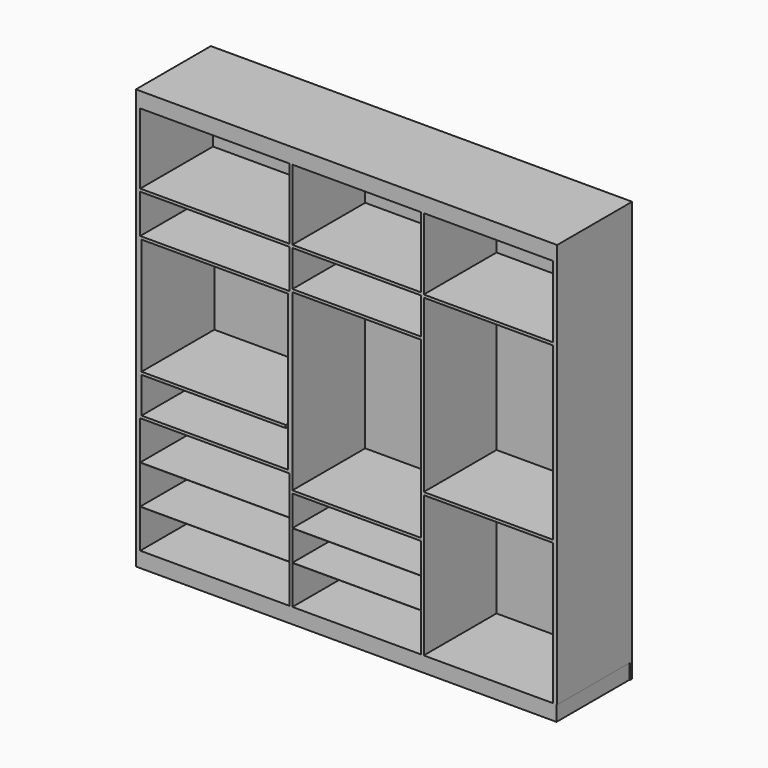
from build123d import *

# Parameters (mm, degrees)
SKETCH_W      = 2742
SKETCH_H      = 593
PAD_DEPTH     = 100
SKETCH001_W   = 28.5
SKETCH001_H   = 593
SKETCH001_W_2 = 18
PAD001_DEPTH  = 2538
SKETCH002_W   = 2746
SKETCH002_H   = 593
PAD002_DEPTH  = 100
SKETCH003_W   = 2746
SKETCH003_H   = 2738
PAD003_DEPTH  = 18
SKETCH004_W   = 593
SKETCH004_H   = 18
PAD004_DEPTH  = 841
SKETCH005_W   = 593
SKETCH005_H   = 18
SKETCH005_H_2 = 1
PAD005_DEPTH  = 838
SKETCH006_W   = 593
SKETCH006_H   = 18
SKETCH006_H_2 = 1
PAD006_DEPTH  = 974
SKETCH007_W   = 8.5
SKETCH007_H   = 593
SKETCH007_W_2 = 9.5
PAD007_DEPTH  = 1024
SKETCH008_W   = 593
SKETCH008_H   = 18
PAD008_DEPTH  = 939.8


with BuildPart() as part:
    # Sketch → Pad (new body)
    with BuildSketch(Plane.XY):
        with Locations((1371, 296.5)):
            Rectangle(SKETCH_W, SKETCH_H)
    extrude(amount=PAD_DEPTH)

    # Sketch001 (on Face6 of Pad) → Pad001 (join)
    with BuildSketch(Plane.XY.offset(100)):
        with Locations((14.25, 296.5)):
            Rectangle(SKETCH001_W, SKETCH001_H)
        with Locations((1011.5, 296.5)):
            Rectangle(SKETCH001_W_2, SKETCH001_H)
        with Locations((1867.5, 296.5)):
            Rectangle(SKETCH001_W_2, SKETCH001_H)
        with Locations((2731.75, 296.5)):
            Rectangle(SKETCH001_W, SKETCH001_H)
    extrude(amount=PAD001_DEPTH)

    # Sketch002 (on Face16 of Pad001) → Pad002 (join)
    with BuildSketch(Plane.XY.offset(2638)):
        with Locations((1373, 296.5)):
            Rectangle(SKETCH002_W, SKETCH002_H)
    extrude(amount=PAD002_DEPTH)

    # Sketch003 (on Face12 of Pad002) → Pad003 (join)
    with BuildSketch(Plane(origin=(0, 593, 0), x_dir=(-1, 0, 0), z_dir=(0, 1, 0))):
        with Locations((-1373, 1369)):
            Rectangle(SKETCH003_W, SKETCH003_H)
    extrude(amount=PAD003_DEPTH)

    # Sketch004 (on Face24 of Pad003) → Pad004 (join)
    with BuildSketch(Plane.YZ.offset(1876.5)):
        with Locations((296.5, 1029)):
            Rectangle(SKETCH004_W, SKETCH004_H)
        with Locations((296.5, 2162)):
            Rectangle(SKETCH004_W, SKETCH004_H)
    extrude(amount=PAD004_DEPTH)

    # Sketch005 (on Face21 of Pad004) → Pad005 (join)
    with BuildSketch(Plane.YZ.offset(1020.5)):
        with Locations((296.5, 2169)):
            Rectangle(SKETCH005_W, SKETCH005_H)
        with Locations((296.5, 1915)):
            Rectangle(SKETCH005_W, SKETCH005_H)
        with Locations((296.5, 760)):
            Rectangle(SKETCH005_W, SKETCH005_H)
        with Locations((296.5, 551.833333)):
            Rectangle(SKETCH005_W, SKETCH005_H_2)
        with Locations((296.5, 353.166667)):
            Rectangle(SKETCH005_W, SKETCH005_H_2)
    extrude(amount=PAD005_DEPTH)

    # Sketch006 (on Face17 of Pad005) → Pad006 (join)
    with BuildSketch(Plane.YZ.offset(28.5)):
        with Locations((296.5, 2169)):
            Rectangle(SKETCH006_W, SKETCH006_H)
        with Locations((296.5, 1897)):
            Rectangle(SKETCH006_W, SKETCH006_H)
        with Locations((296.5, 869)):
            Rectangle(SKETCH006_W, SKETCH006_H)
        with Locations((296.5, 606.166667)):
            Rectangle(SKETCH006_W, SKETCH006_H_2)
        with Locations((296.5, 352.833333)):
            Rectangle(SKETCH006_W, SKETCH006_H_2)
    extrude(amount=PAD006_DEPTH)

    # Sketch007 (on Face75 of Pad006) → Pad007 (join)
    with BuildSketch(Plane.XY.offset(878)):
        with Locations((32.75, 296.5)):
            Rectangle(SKETCH007_W, SKETCH007_H)
        with Locations((997.75, 296.5)):
            Rectangle(SKETCH007_W_2, SKETCH007_H)
    extrude(amount=PAD007_DEPTH)

    # Sketch008 (on Face78 of Pad007) → Pad008 (join)
    with BuildSketch(Plane.YZ.offset(37)):
        with Locations((296.5, 1121)):
            Rectangle(SKETCH008_W, SKETCH008_H)
    extrude(amount=PAD008_DEPTH)


solid = part.part
